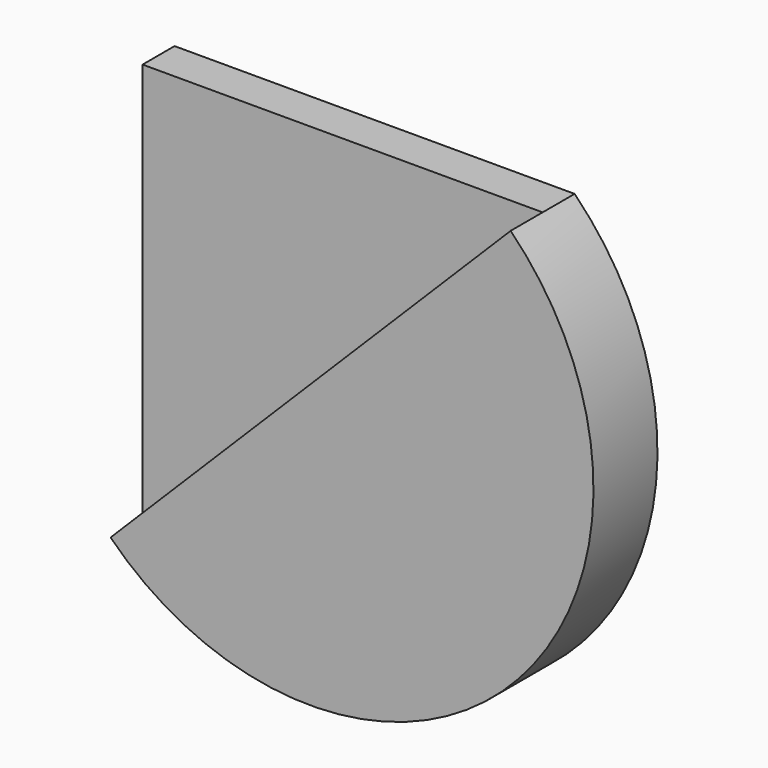
from build123d import *

# Parameters (mm, degrees)
F1_DEPTH = 25.4
F2_DEPTH = 50.8


with BuildPart() as f1:
    # F0 (on Front) → F1 (new body)
    with BuildSketch(Plane.XZ):
        Polygon((127, 127), (-127, 127), (-127, -127), align=None)
    extrude(amount=F1_DEPTH)


with BuildPart() as f2:
    # F0 (on Front) → F2 (new body)
    with BuildSketch(Plane.XZ):
        with BuildLine():
            ThreePointArc((-127, -127), (127, -127), (127, 127))
            Line((127, 127), (-127, -127))
        make_face()
    extrude(amount=F2_DEPTH)


solid = Compound([f1.part, f2.part])
